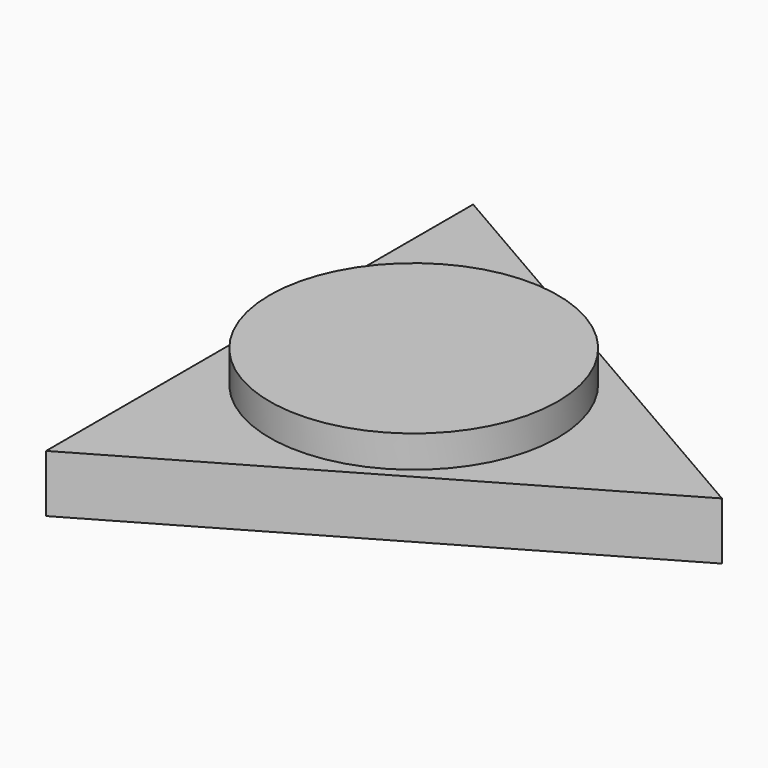
from build123d import *

# Parameters (mm, degrees)
F1_DEPTH = 10.23828
F2_R     = 25.715841
F3_DEPTH = 5.69966


with BuildPart() as f1:
    # F0 (on Top) → F1 (new body)
    with BuildSketch(Plane.XY):
        Polygon((-27.506582, 47.642798), (-27.506582, -47.642798), (55.013165, 0), align=None)
    extrude(amount=F1_DEPTH)

    # F2 (on face) → F3 (join)
    with BuildSketch(Plane.XY.offset(10.23828)):
        Circle(F2_R)
    extrude(amount=F3_DEPTH)


solid = f1.part
